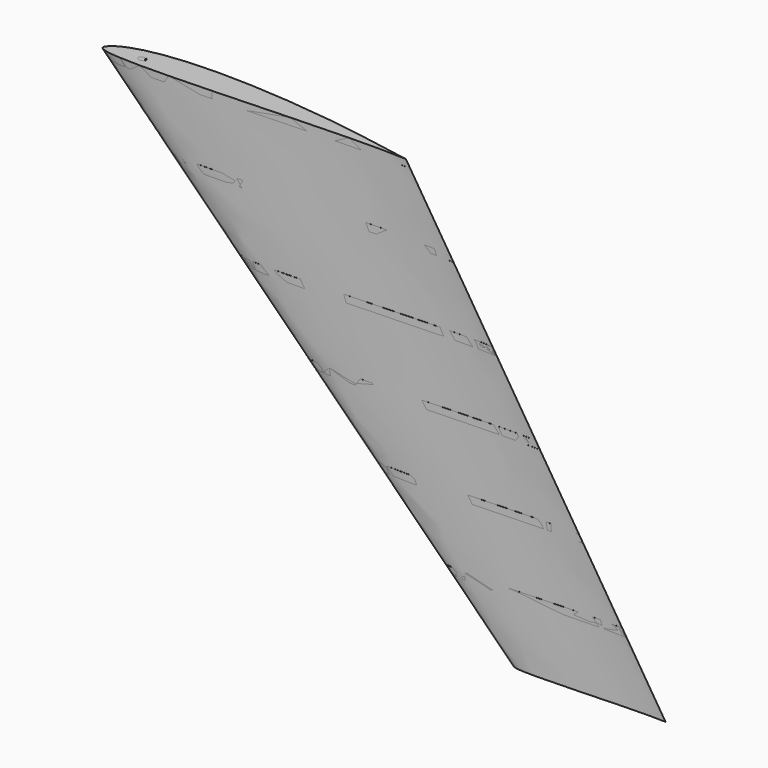
from build123d import *

# Parameters (mm, degrees)
SKETCH002_R     = 4.025
SKETCH003_R     = 4.025
SKETCH028_W     = 1551.71341
SKETCH028_H     = 511.453491
POCKET_DEPTH    = 590
SKETCH006_R     = 4.025
SKETCH007_R     = 4.025
SKETCH029_W     = 875.62088
SKETCH029_H     = 403.039871
POCKET001_DEPTH = 100
SKETCH030_W     = 1072.280362
SKETCH030_H     = 438.184342
POCKET002_DEPTH = 490
SKETCH010_R     = 4.025
SKETCH011_R     = 4.025
SKETCH031_W     = 1495.088257
SKETCH031_H     = 461.22145
POCKET003_DEPTH = 200
SKETCH032_W     = 977.241516
SKETCH032_H     = 280.386124
POCKET004_DEPTH = 390
SKETCH014_R     = 4.025
SKETCH015_R     = 4.025
SKETCH033_W     = 1395.514465
SKETCH033_H     = 519.83194
POCKET005_DEPTH = 300
SKETCH034_W     = 936.936814
SKETCH034_H     = 260.218681
POCKET006_DEPTH = 290
SKETCH018_R     = 4.025
SKETCH019_R     = 4.025
SKETCH035_W     = 1150.770355
SKETCH035_H     = 347.971039
POCKET007_DEPTH = 400
SKETCH036_W     = 742.520874
SKETCH036_H     = 238.373878
POCKET008_DEPTH = 190
SKETCH022_R     = 4.025
SKETCH023_R     = 4.025
SKETCH037_W     = 2361.441773
SKETCH037_H     = 620.731323
POCKET009_DEPTH = 500
SKETCH038_W     = 999.160874
SKETCH038_H     = 257.553367
POCKET010_DEPTH = 90
SKETCH039_R     = 4.05
POCKET011_DEPTH = 1000


with BuildPart() as body:
    # Sketch001 → AdditiveLoft section 0
    with BuildSketch(Plane.XY):
        with BuildLine():
            add(Edge.make_bspline(
                [(442, 0), (441.516482, 0.05985), (439.608661, 0.304392), (435.397729, 0.910974), (428.574856, 2.050787), (419.357172, 3.70148), (407.988015, 5.842425), (394.698211, 8.361511), (379.693029, 11.119858), (363.162801, 13.997331), (345.26298, 16.850624), (326.154422, 19.592319), (306.024603, 22.224467), (285.087437, 24.693135), (263.574681, 26.954707), (241.720258, 28.956147), (219.751231, 30.630726), (197.897907, 31.93252), (176.376671, 32.821617), (155.396014, 33.244603), (135.15065, 33.188213), (115.824376, 32.629564), (97.587476, 31.56887), (80.596225, 30.005784), (64.993081, 27.968424), (50.899514, 25.480303), (38.413049, 22.576942), (27.612464, 19.308312), (18.537399, 15.757674), (11.25959, 12.025676), (5.681209, 8.285847), (2.085717, 4.609671), (-0.247471, 1.339778), (0.311945, -2.351632), (4.312806, -4.086549), (9.630029, -5.736613), (17.536136, -6.998137), (27.548729, -7.995899), (39.778624, -8.638792), (54.057759, -8.977652), (70.277468, -9.020418), (88.270446, -8.806011), (107.851364, -8.369968), (128.803322, -7.757266), (150.891088, -7.009708), (173.8572, -6.171241), (197.434439, -5.258382), (221.347851, -4.314599), (245.320032, -3.359505), (269.074332, -2.428661), (292.331841, -1.542801), (314.820615, -0.740997), (336.263952, -0.054134), (356.390635, 0.471415), (374.915352, 0.819632), (391.616087, 0.995955), (406.124271, 0.998543), (418.5896, 0.838399), (427.79948, 0.669458), (436.147044, 0.281922), (438.208582, 0.287723), (442.482043, -0.059667), (442, 0)],
                knots=[0, 0, 0, 0, 1.461597, 5.77029, 12.762078, 22.212664, 33.86298, 47.468775, 62.792045, 79.632371, 97.804006, 117.167199, 137.543181, 158.706049, 180.412086, 202.435333, 224.541436, 246.507528, 268.108303, 289.156025, 309.457208, 328.838587, 347.151752, 364.251375, 380.016791, 394.345039, 407.169539, 418.451022, 428.175556, 436.348274, 442.987025, 448.138084, 451.892769, 454.490135, 458.080843, 463.78995, 471.700688, 481.805752, 494.068802, 508.3943, 524.664455, 542.72125, 562.377151, 583.420645, 605.603797, 628.678224, 652.364831, 676.388479, 700.474308, 724.338439, 747.706026, 770.297556, 791.846969, 812.070775, 830.691007, 847.452489, 862.104791, 874.428615, 884.234973, 891.369529, 895.711178, 897.168317, 897.168317, 897.168317, 897.168317], degree=3))
        make_face()
    # Sketch → AdditiveLoft section 1
    with BuildSketch(Plane(origin=(600, 0, -600), x_dir=(1, 0, 0), z_dir=(0, 0, 1))):
        with BuildLine():
            add(Edge.make_bspline(
                [(221, 0), (220.758241, 0.029925), (219.804331, 0.152196), (217.698864, 0.455487), (214.287428, 1.025393), (209.678586, 1.85074), (203.994008, 2.921212), (197.349106, 4.180756), (189.846514, 5.559929), (181.5814, 6.998665), (172.63149, 8.425312), (163.077211, 9.796159), (153.012301, 11.112233), (142.543719, 12.346568), (131.78734, 13.477353), (120.860129, 14.478073), (109.875616, 15.315363), (98.948954, 15.96626), (88.188336, 16.410808), (77.698007, 16.622301), (67.575325, 16.594107), (57.912188, 16.314782), (48.793738, 15.784435), (40.298113, 15.002892), (32.49654, 13.984212), (25.449757, 12.740151), (19.206525, 11.288471), (13.806232, 9.654156), (9.2687, 7.878837), (5.629795, 6.012838), (2.840604, 4.142924), (1.042858, 2.304836), (-0.123736, 0.669889), (0.155972, -1.175816), (2.156403, -2.043274), (4.815015, -2.868307), (8.768068, -3.499068), (13.774365, -3.997949), (19.889312, -4.319396), (27.028879, -4.488826), (35.138734, -4.510209), (44.135223, -4.403006), (53.925682, -4.184984), (64.401661, -3.878633), (75.445544, -3.504854), (86.9286, -3.08562), (98.71722, -2.629191), (110.673925, -2.157299), (122.660016, -1.679753), (134.537166, -1.21433), (146.165921, -0.771401), (157.410308, -0.370498), (168.131976, -0.027067), (178.195317, 0.235708), (187.457676, 0.409816), (195.808043, 0.497978), (203.062136, 0.499271), (209.2948, 0.4192), (213.89974, 0.334729), (218.073522, 0.140961), (219.104291, 0.143861), (221.241022, -0.029834), (221, 0)],
                knots=[0, 0, 0, 0, 0.730799, 2.885145, 6.381039, 11.106332, 16.93149, 23.734387, 31.396023, 39.816186, 48.902003, 58.583599, 68.77159, 79.353025, 90.206043, 101.217667, 112.270718, 123.253764, 134.054152, 144.578012, 154.728604, 164.419294, 173.575876, 182.125688, 190.008395, 197.172519, 203.58477, 209.225511, 214.087778, 218.174137, 221.493513, 224.069042, 225.946384, 227.245067, 229.040421, 231.894975, 235.850344, 240.902876, 247.034401, 254.19715, 262.332227, 271.360625, 281.188575, 291.710323, 302.801898, 314.339112, 326.182416, 338.19424, 350.237154, 362.16922, 373.853013, 385.148778, 395.923484, 406.035388, 415.345504, 423.726244, 431.052396, 437.214307, 442.117487, 445.684765, 447.855589, 448.584159, 448.584159, 448.584159, 448.584159], degree=3))
        make_face()
    loft()

    # Sketch002 (on Face1 of AdditiveLoft) → SubtractiveLoft section 0
    with BuildSketch(Plane.XY):
        with Locations((60, 8)):
            Circle(SKETCH002_R)
    # Sketch003 (on Face3 of AdditiveLoft) → SubtractiveLoft section 1
    with BuildSketch(Plane(origin=(0, 0, -600), x_dir=(1, 0, 0), z_dir=(0, 0, -1))):
        with Locations((673, -6.3)):
            Circle(SKETCH003_R)
    loft(mode=Mode.SUBTRACT)

    # Sketch028 (on Face4 of SubtractiveLoft) → Pocket (cut)
    with BuildSketch(Plane(origin=(0, 0, -600), x_dir=(1, 0, 0), z_dir=(0, 0, -1))):
        with Locations((414.172592, -16.717498)):
            Rectangle(SKETCH028_W, SKETCH028_H)
    extrude(amount=-POCKET_DEPTH, mode=Mode.SUBTRACT)


with BuildPart() as body001:
    # Sketch005 → AdditiveLoft001 section 0
    with BuildSketch(Plane.XY):
        with BuildLine():
            add(Edge.make_bspline(
                [(442, 0), (441.516482, 0.05985), (439.608661, 0.304392), (435.397729, 0.910974), (428.574856, 2.050787), (419.357172, 3.70148), (407.988015, 5.842425), (394.698211, 8.361511), (379.693029, 11.119858), (363.162801, 13.997331), (345.26298, 16.850624), (326.154422, 19.592319), (306.024603, 22.224467), (285.087437, 24.693135), (263.574681, 26.954707), (241.720258, 28.956147), (219.751231, 30.630726), (197.897907, 31.93252), (176.376671, 32.821617), (155.396014, 33.244603), (135.15065, 33.188213), (115.824376, 32.629564), (97.587476, 31.56887), (80.596225, 30.005784), (64.993081, 27.968424), (50.899514, 25.480303), (38.413049, 22.576942), (27.612464, 19.308312), (18.537399, 15.757674), (11.25959, 12.025676), (5.681209, 8.285847), (2.085717, 4.609671), (-0.247471, 1.339778), (0.311945, -2.351632), (4.312806, -4.086549), (9.630029, -5.736613), (17.536136, -6.998137), (27.548729, -7.995899), (39.778624, -8.638792), (54.057759, -8.977652), (70.277468, -9.020418), (88.270446, -8.806011), (107.851364, -8.369968), (128.803322, -7.757266), (150.891088, -7.009708), (173.8572, -6.171241), (197.434439, -5.258382), (221.347851, -4.314599), (245.320032, -3.359505), (269.074332, -2.428661), (292.331841, -1.542801), (314.820615, -0.740997), (336.263952, -0.054134), (356.390635, 0.471415), (374.915352, 0.819632), (391.616087, 0.995955), (406.124271, 0.998543), (418.5896, 0.838399), (427.79948, 0.669458), (436.147044, 0.281922), (438.208582, 0.287723), (442.482043, -0.059667), (442, 0)],
                knots=[0, 0, 0, 0, 1.461597, 5.77029, 12.762078, 22.212664, 33.86298, 47.468775, 62.792045, 79.632371, 97.804006, 117.167199, 137.543181, 158.706049, 180.412086, 202.435333, 224.541436, 246.507528, 268.108303, 289.156025, 309.457208, 328.838587, 347.151752, 364.251375, 380.016791, 394.345039, 407.169539, 418.451022, 428.175556, 436.348274, 442.987025, 448.138084, 451.892769, 454.490135, 458.080843, 463.78995, 471.700688, 481.805752, 494.068802, 508.3943, 524.664455, 542.72125, 562.377151, 583.420645, 605.603797, 628.678224, 652.364831, 676.388479, 700.474308, 724.338439, 747.706026, 770.297556, 791.846969, 812.070775, 830.691007, 847.452489, 862.104791, 874.428615, 884.234973, 891.369529, 895.711178, 897.168317, 897.168317, 897.168317, 897.168317], degree=3))
        make_face()
    # Sketch004 → AdditiveLoft001 section 1
    with BuildSketch(Plane(origin=(600, 0, -600), x_dir=(1, 0, 0), z_dir=(0, 0, 1))):
        with BuildLine():
            add(Edge.make_bspline(
                [(221, 0), (220.758241, 0.029925), (219.804331, 0.152196), (217.698864, 0.455487), (214.287428, 1.025393), (209.678586, 1.85074), (203.994008, 2.921212), (197.349106, 4.180756), (189.846514, 5.559929), (181.5814, 6.998665), (172.63149, 8.425312), (163.077211, 9.796159), (153.012301, 11.112233), (142.543719, 12.346568), (131.78734, 13.477353), (120.860129, 14.478073), (109.875616, 15.315363), (98.948954, 15.96626), (88.188336, 16.410808), (77.698007, 16.622301), (67.575325, 16.594107), (57.912188, 16.314782), (48.793738, 15.784435), (40.298113, 15.002892), (32.49654, 13.984212), (25.449757, 12.740151), (19.206525, 11.288471), (13.806232, 9.654156), (9.2687, 7.878837), (5.629795, 6.012838), (2.840604, 4.142924), (1.042858, 2.304836), (-0.123736, 0.669889), (0.155972, -1.175816), (2.156403, -2.043274), (4.815015, -2.868307), (8.768068, -3.499068), (13.774365, -3.997949), (19.889312, -4.319396), (27.028879, -4.488826), (35.138734, -4.510209), (44.135223, -4.403006), (53.925682, -4.184984), (64.401661, -3.878633), (75.445544, -3.504854), (86.9286, -3.08562), (98.71722, -2.629191), (110.673925, -2.157299), (122.660016, -1.679753), (134.537166, -1.21433), (146.165921, -0.771401), (157.410308, -0.370498), (168.131976, -0.027067), (178.195317, 0.235708), (187.457676, 0.409816), (195.808043, 0.497978), (203.062136, 0.499271), (209.2948, 0.4192), (213.89974, 0.334729), (218.073522, 0.140961), (219.104291, 0.143861), (221.241022, -0.029834), (221, 0)],
                knots=[0, 0, 0, 0, 0.730799, 2.885145, 6.381039, 11.106332, 16.93149, 23.734387, 31.396023, 39.816186, 48.902003, 58.583599, 68.77159, 79.353025, 90.206043, 101.217667, 112.270718, 123.253764, 134.054152, 144.578012, 154.728604, 164.419294, 173.575876, 182.125688, 190.008395, 197.172519, 203.58477, 209.225511, 214.087778, 218.174137, 221.493513, 224.069042, 225.946384, 227.245067, 229.040421, 231.894975, 235.850344, 240.902876, 247.034401, 254.19715, 262.332227, 271.360625, 281.188575, 291.710323, 302.801898, 314.339112, 326.182416, 338.19424, 350.237154, 362.16922, 373.853013, 385.148778, 395.923484, 406.035388, 415.345504, 423.726244, 431.052396, 437.214307, 442.117487, 445.684765, 447.855589, 448.584159, 448.584159, 448.584159, 448.584159], degree=3))
        make_face()
    loft()

    # Sketch006 (on Face1 of AdditiveLoft001) → SubtractiveLoft001 section 0
    with BuildSketch(Plane.XY):
        with Locations((60, 8)):
            Circle(SKETCH006_R)
    # Sketch007 (on Face3 of AdditiveLoft001) → SubtractiveLoft001 section 1
    with BuildSketch(Plane(origin=(0, 0, -600), x_dir=(1, 0, 0), z_dir=(0, 0, -1))):
        with Locations((673, -6.3)):
            Circle(SKETCH007_R)
    loft(mode=Mode.SUBTRACT)

    # Sketch029 (on Face1 of SubtractiveLoft001) → Pocket001 (cut)
    with BuildSketch(Plane.XY):
        with Locations((254.505234, 24.189644)):
            Rectangle(SKETCH029_W, SKETCH029_H)
    extrude(amount=-POCKET001_DEPTH, mode=Mode.SUBTRACT)

    # Sketch030 (on Face3 of Pocket001) → Pocket002 (cut)
    with BuildSketch(Plane(origin=(0, 0, -600), x_dir=(1, 0, 0), z_dir=(0, 0, -1))):
        with Locations((596.115923, -30.057411)):
            Rectangle(SKETCH030_W, SKETCH030_H)
    extrude(amount=-POCKET002_DEPTH, mode=Mode.SUBTRACT)


with BuildPart() as body002:
    # Sketch009 → AdditiveLoft002 section 0
    with BuildSketch(Plane.XY):
        with BuildLine():
            add(Edge.make_bspline(
                [(442, 0), (441.516482, 0.05985), (439.608661, 0.304392), (435.397729, 0.910974), (428.574856, 2.050787), (419.357172, 3.70148), (407.988015, 5.842425), (394.698211, 8.361511), (379.693029, 11.119858), (363.162801, 13.997331), (345.26298, 16.850624), (326.154422, 19.592319), (306.024603, 22.224467), (285.087437, 24.693135), (263.574681, 26.954707), (241.720258, 28.956147), (219.751231, 30.630726), (197.897907, 31.93252), (176.376671, 32.821617), (155.396014, 33.244603), (135.15065, 33.188213), (115.824376, 32.629564), (97.587476, 31.56887), (80.596225, 30.005784), (64.993081, 27.968424), (50.899514, 25.480303), (38.413049, 22.576942), (27.612464, 19.308312), (18.537399, 15.757674), (11.25959, 12.025676), (5.681209, 8.285847), (2.085717, 4.609671), (-0.247471, 1.339778), (0.311945, -2.351632), (4.312806, -4.086549), (9.630029, -5.736613), (17.536136, -6.998137), (27.548729, -7.995899), (39.778624, -8.638792), (54.057759, -8.977652), (70.277468, -9.020418), (88.270446, -8.806011), (107.851364, -8.369968), (128.803322, -7.757266), (150.891088, -7.009708), (173.8572, -6.171241), (197.434439, -5.258382), (221.347851, -4.314599), (245.320032, -3.359505), (269.074332, -2.428661), (292.331841, -1.542801), (314.820615, -0.740997), (336.263952, -0.054134), (356.390635, 0.471415), (374.915352, 0.819632), (391.616087, 0.995955), (406.124271, 0.998543), (418.5896, 0.838399), (427.79948, 0.669458), (436.147044, 0.281922), (438.208582, 0.287723), (442.482043, -0.059667), (442, 0)],
                knots=[0, 0, 0, 0, 1.461597, 5.77029, 12.762078, 22.212664, 33.86298, 47.468775, 62.792045, 79.632371, 97.804006, 117.167199, 137.543181, 158.706049, 180.412086, 202.435333, 224.541436, 246.507528, 268.108303, 289.156025, 309.457208, 328.838587, 347.151752, 364.251375, 380.016791, 394.345039, 407.169539, 418.451022, 428.175556, 436.348274, 442.987025, 448.138084, 451.892769, 454.490135, 458.080843, 463.78995, 471.700688, 481.805752, 494.068802, 508.3943, 524.664455, 542.72125, 562.377151, 583.420645, 605.603797, 628.678224, 652.364831, 676.388479, 700.474308, 724.338439, 747.706026, 770.297556, 791.846969, 812.070775, 830.691007, 847.452489, 862.104791, 874.428615, 884.234973, 891.369529, 895.711178, 897.168317, 897.168317, 897.168317, 897.168317], degree=3))
        make_face()
    # Sketch008 → AdditiveLoft002 section 1
    with BuildSketch(Plane(origin=(600, 0, -600), x_dir=(1, 0, 0), z_dir=(0, 0, 1))):
        with BuildLine():
            add(Edge.make_bspline(
                [(221, 0), (220.758241, 0.029925), (219.804331, 0.152196), (217.698864, 0.455487), (214.287428, 1.025393), (209.678586, 1.85074), (203.994008, 2.921212), (197.349106, 4.180756), (189.846514, 5.559929), (181.5814, 6.998665), (172.63149, 8.425312), (163.077211, 9.796159), (153.012301, 11.112233), (142.543719, 12.346568), (131.78734, 13.477353), (120.860129, 14.478073), (109.875616, 15.315363), (98.948954, 15.96626), (88.188336, 16.410808), (77.698007, 16.622301), (67.575325, 16.594107), (57.912188, 16.314782), (48.793738, 15.784435), (40.298113, 15.002892), (32.49654, 13.984212), (25.449757, 12.740151), (19.206525, 11.288471), (13.806232, 9.654156), (9.2687, 7.878837), (5.629795, 6.012838), (2.840604, 4.142924), (1.042858, 2.304836), (-0.123736, 0.669889), (0.155972, -1.175816), (2.156403, -2.043274), (4.815015, -2.868307), (8.768068, -3.499068), (13.774365, -3.997949), (19.889312, -4.319396), (27.028879, -4.488826), (35.138734, -4.510209), (44.135223, -4.403006), (53.925682, -4.184984), (64.401661, -3.878633), (75.445544, -3.504854), (86.9286, -3.08562), (98.71722, -2.629191), (110.673925, -2.157299), (122.660016, -1.679753), (134.537166, -1.21433), (146.165921, -0.771401), (157.410308, -0.370498), (168.131976, -0.027067), (178.195317, 0.235708), (187.457676, 0.409816), (195.808043, 0.497978), (203.062136, 0.499271), (209.2948, 0.4192), (213.89974, 0.334729), (218.073522, 0.140961), (219.104291, 0.143861), (221.241022, -0.029834), (221, 0)],
                knots=[0, 0, 0, 0, 0.730799, 2.885145, 6.381039, 11.106332, 16.93149, 23.734387, 31.396023, 39.816186, 48.902003, 58.583599, 68.77159, 79.353025, 90.206043, 101.217667, 112.270718, 123.253764, 134.054152, 144.578012, 154.728604, 164.419294, 173.575876, 182.125688, 190.008395, 197.172519, 203.58477, 209.225511, 214.087778, 218.174137, 221.493513, 224.069042, 225.946384, 227.245067, 229.040421, 231.894975, 235.850344, 240.902876, 247.034401, 254.19715, 262.332227, 271.360625, 281.188575, 291.710323, 302.801898, 314.339112, 326.182416, 338.19424, 350.237154, 362.16922, 373.853013, 385.148778, 395.923484, 406.035388, 415.345504, 423.726244, 431.052396, 437.214307, 442.117487, 445.684765, 447.855589, 448.584159, 448.584159, 448.584159, 448.584159], degree=3))
        make_face()
    loft()

    # Sketch010 (on Face1 of AdditiveLoft002) → SubtractiveLoft002 section 0
    with BuildSketch(Plane.XY):
        with Locations((60, 8)):
            Circle(SKETCH010_R)
    # Sketch011 (on Face3 of AdditiveLoft002) → SubtractiveLoft002 section 1
    with BuildSketch(Plane(origin=(0, 0, -600), x_dir=(1, 0, 0), z_dir=(0, 0, -1))):
        with Locations((673, -6.3)):
            Circle(SKETCH011_R)
    loft(mode=Mode.SUBTRACT)

    # Sketch031 (on Face1 of SubtractiveLoft002) → Pocket003 (cut)
    with BuildSketch(Plane.XY):
        with Locations((453.857972, 22.054741)):
            Rectangle(SKETCH031_W, SKETCH031_H)
    extrude(amount=-POCKET003_DEPTH, mode=Mode.SUBTRACT)

    # Sketch032 (on Face3 of Pocket003) → Pocket004 (cut)
    with BuildSketch(Plane(origin=(0, 0, -600), x_dir=(1, 0, 0), z_dir=(0, 0, -1))):
        with Locations((605.329437, -4.660988)):
            Rectangle(SKETCH032_W, SKETCH032_H)
    extrude(amount=-POCKET004_DEPTH, mode=Mode.SUBTRACT)


with BuildPart() as body003:
    # Sketch013 → AdditiveLoft003 section 0
    with BuildSketch(Plane.XY):
        with BuildLine():
            add(Edge.make_bspline(
                [(442, 0), (441.516482, 0.05985), (439.608661, 0.304392), (435.397729, 0.910974), (428.574856, 2.050787), (419.357172, 3.70148), (407.988015, 5.842425), (394.698211, 8.361511), (379.693029, 11.119858), (363.162801, 13.997331), (345.26298, 16.850624), (326.154422, 19.592319), (306.024603, 22.224467), (285.087437, 24.693135), (263.574681, 26.954707), (241.720258, 28.956147), (219.751231, 30.630726), (197.897907, 31.93252), (176.376671, 32.821617), (155.396014, 33.244603), (135.15065, 33.188213), (115.824376, 32.629564), (97.587476, 31.56887), (80.596225, 30.005784), (64.993081, 27.968424), (50.899514, 25.480303), (38.413049, 22.576942), (27.612464, 19.308312), (18.537399, 15.757674), (11.25959, 12.025676), (5.681209, 8.285847), (2.085717, 4.609671), (-0.247471, 1.339778), (0.311945, -2.351632), (4.312806, -4.086549), (9.630029, -5.736613), (17.536136, -6.998137), (27.548729, -7.995899), (39.778624, -8.638792), (54.057759, -8.977652), (70.277468, -9.020418), (88.270446, -8.806011), (107.851364, -8.369968), (128.803322, -7.757266), (150.891088, -7.009708), (173.8572, -6.171241), (197.434439, -5.258382), (221.347851, -4.314599), (245.320032, -3.359505), (269.074332, -2.428661), (292.331841, -1.542801), (314.820615, -0.740997), (336.263952, -0.054134), (356.390635, 0.471415), (374.915352, 0.819632), (391.616087, 0.995955), (406.124271, 0.998543), (418.5896, 0.838399), (427.79948, 0.669458), (436.147044, 0.281922), (438.208582, 0.287723), (442.482043, -0.059667), (442, 0)],
                knots=[0, 0, 0, 0, 1.461597, 5.77029, 12.762078, 22.212664, 33.86298, 47.468775, 62.792045, 79.632371, 97.804006, 117.167199, 137.543181, 158.706049, 180.412086, 202.435333, 224.541436, 246.507528, 268.108303, 289.156025, 309.457208, 328.838587, 347.151752, 364.251375, 380.016791, 394.345039, 407.169539, 418.451022, 428.175556, 436.348274, 442.987025, 448.138084, 451.892769, 454.490135, 458.080843, 463.78995, 471.700688, 481.805752, 494.068802, 508.3943, 524.664455, 542.72125, 562.377151, 583.420645, 605.603797, 628.678224, 652.364831, 676.388479, 700.474308, 724.338439, 747.706026, 770.297556, 791.846969, 812.070775, 830.691007, 847.452489, 862.104791, 874.428615, 884.234973, 891.369529, 895.711178, 897.168317, 897.168317, 897.168317, 897.168317], degree=3))
        make_face()
    # Sketch012 → AdditiveLoft003 section 1
    with BuildSketch(Plane(origin=(600, 0, -600), x_dir=(1, 0, 0), z_dir=(0, 0, 1))):
        with BuildLine():
            add(Edge.make_bspline(
                [(221, 0), (220.758241, 0.029925), (219.804331, 0.152196), (217.698864, 0.455487), (214.287428, 1.025393), (209.678586, 1.85074), (203.994008, 2.921212), (197.349106, 4.180756), (189.846514, 5.559929), (181.5814, 6.998665), (172.63149, 8.425312), (163.077211, 9.796159), (153.012301, 11.112233), (142.543719, 12.346568), (131.78734, 13.477353), (120.860129, 14.478073), (109.875616, 15.315363), (98.948954, 15.96626), (88.188336, 16.410808), (77.698007, 16.622301), (67.575325, 16.594107), (57.912188, 16.314782), (48.793738, 15.784435), (40.298113, 15.002892), (32.49654, 13.984212), (25.449757, 12.740151), (19.206525, 11.288471), (13.806232, 9.654156), (9.2687, 7.878837), (5.629795, 6.012838), (2.840604, 4.142924), (1.042858, 2.304836), (-0.123736, 0.669889), (0.155972, -1.175816), (2.156403, -2.043274), (4.815015, -2.868307), (8.768068, -3.499068), (13.774365, -3.997949), (19.889312, -4.319396), (27.028879, -4.488826), (35.138734, -4.510209), (44.135223, -4.403006), (53.925682, -4.184984), (64.401661, -3.878633), (75.445544, -3.504854), (86.9286, -3.08562), (98.71722, -2.629191), (110.673925, -2.157299), (122.660016, -1.679753), (134.537166, -1.21433), (146.165921, -0.771401), (157.410308, -0.370498), (168.131976, -0.027067), (178.195317, 0.235708), (187.457676, 0.409816), (195.808043, 0.497978), (203.062136, 0.499271), (209.2948, 0.4192), (213.89974, 0.334729), (218.073522, 0.140961), (219.104291, 0.143861), (221.241022, -0.029834), (221, 0)],
                knots=[0, 0, 0, 0, 0.730799, 2.885145, 6.381039, 11.106332, 16.93149, 23.734387, 31.396023, 39.816186, 48.902003, 58.583599, 68.77159, 79.353025, 90.206043, 101.217667, 112.270718, 123.253764, 134.054152, 144.578012, 154.728604, 164.419294, 173.575876, 182.125688, 190.008395, 197.172519, 203.58477, 209.225511, 214.087778, 218.174137, 221.493513, 224.069042, 225.946384, 227.245067, 229.040421, 231.894975, 235.850344, 240.902876, 247.034401, 254.19715, 262.332227, 271.360625, 281.188575, 291.710323, 302.801898, 314.339112, 326.182416, 338.19424, 350.237154, 362.16922, 373.853013, 385.148778, 395.923484, 406.035388, 415.345504, 423.726244, 431.052396, 437.214307, 442.117487, 445.684765, 447.855589, 448.584159, 448.584159, 448.584159, 448.584159], degree=3))
        make_face()
    loft()

    # Sketch014 (on Face1 of AdditiveLoft003) → SubtractiveLoft003 section 0
    with BuildSketch(Plane.XY):
        with Locations((60, 8)):
            Circle(SKETCH014_R)
    # Sketch015 (on Face3 of AdditiveLoft003) → SubtractiveLoft003 section 1
    with BuildSketch(Plane(origin=(0, 0, -600), x_dir=(1, 0, 0), z_dir=(0, 0, -1))):
        with Locations((673, -6.3)):
            Circle(SKETCH015_R)
    loft(mode=Mode.SUBTRACT)

    # Sketch033 (on Face1 of SubtractiveLoft003) → Pocket005 (cut)
    with BuildSketch(Plane.XY):
        with Locations((342.859222, 1.248154)):
            Rectangle(SKETCH033_W, SKETCH033_H)
    extrude(amount=-POCKET005_DEPTH, mode=Mode.SUBTRACT)

    # Sketch034 (on Face3 of Pocket005) → Pocket006 (cut)
    with BuildSketch(Plane(origin=(0, 0, -600), x_dir=(1, 0, 0), z_dir=(0, 0, -1))):
        with Locations((702.334816, -12.886372)):
            Rectangle(SKETCH034_W, SKETCH034_H)
    extrude(amount=-POCKET006_DEPTH, mode=Mode.SUBTRACT)


with BuildPart() as body004:
    # Sketch017 → AdditiveLoft004 section 0
    with BuildSketch(Plane.XY):
        with BuildLine():
            add(Edge.make_bspline(
                [(442, 0), (441.516482, 0.05985), (439.608661, 0.304392), (435.397729, 0.910974), (428.574856, 2.050787), (419.357172, 3.70148), (407.988015, 5.842425), (394.698211, 8.361511), (379.693029, 11.119858), (363.162801, 13.997331), (345.26298, 16.850624), (326.154422, 19.592319), (306.024603, 22.224467), (285.087437, 24.693135), (263.574681, 26.954707), (241.720258, 28.956147), (219.751231, 30.630726), (197.897907, 31.93252), (176.376671, 32.821617), (155.396014, 33.244603), (135.15065, 33.188213), (115.824376, 32.629564), (97.587476, 31.56887), (80.596225, 30.005784), (64.993081, 27.968424), (50.899514, 25.480303), (38.413049, 22.576942), (27.612464, 19.308312), (18.537399, 15.757674), (11.25959, 12.025676), (5.681209, 8.285847), (2.085717, 4.609671), (-0.247471, 1.339778), (0.311945, -2.351632), (4.312806, -4.086549), (9.630029, -5.736613), (17.536136, -6.998137), (27.548729, -7.995899), (39.778624, -8.638792), (54.057759, -8.977652), (70.277468, -9.020418), (88.270446, -8.806011), (107.851364, -8.369968), (128.803322, -7.757266), (150.891088, -7.009708), (173.8572, -6.171241), (197.434439, -5.258382), (221.347851, -4.314599), (245.320032, -3.359505), (269.074332, -2.428661), (292.331841, -1.542801), (314.820615, -0.740997), (336.263952, -0.054134), (356.390635, 0.471415), (374.915352, 0.819632), (391.616087, 0.995955), (406.124271, 0.998543), (418.5896, 0.838399), (427.79948, 0.669458), (436.147044, 0.281922), (438.208582, 0.287723), (442.482043, -0.059667), (442, 0)],
                knots=[0, 0, 0, 0, 1.461597, 5.77029, 12.762078, 22.212664, 33.86298, 47.468775, 62.792045, 79.632371, 97.804006, 117.167199, 137.543181, 158.706049, 180.412086, 202.435333, 224.541436, 246.507528, 268.108303, 289.156025, 309.457208, 328.838587, 347.151752, 364.251375, 380.016791, 394.345039, 407.169539, 418.451022, 428.175556, 436.348274, 442.987025, 448.138084, 451.892769, 454.490135, 458.080843, 463.78995, 471.700688, 481.805752, 494.068802, 508.3943, 524.664455, 542.72125, 562.377151, 583.420645, 605.603797, 628.678224, 652.364831, 676.388479, 700.474308, 724.338439, 747.706026, 770.297556, 791.846969, 812.070775, 830.691007, 847.452489, 862.104791, 874.428615, 884.234973, 891.369529, 895.711178, 897.168317, 897.168317, 897.168317, 897.168317], degree=3))
        make_face()
    # Sketch016 → AdditiveLoft004 section 1
    with BuildSketch(Plane(origin=(600, 0, -600), x_dir=(1, 0, 0), z_dir=(0, 0, 1))):
        with BuildLine():
            add(Edge.make_bspline(
                [(221, 0), (220.758241, 0.029925), (219.804331, 0.152196), (217.698864, 0.455487), (214.287428, 1.025393), (209.678586, 1.85074), (203.994008, 2.921212), (197.349106, 4.180756), (189.846514, 5.559929), (181.5814, 6.998665), (172.63149, 8.425312), (163.077211, 9.796159), (153.012301, 11.112233), (142.543719, 12.346568), (131.78734, 13.477353), (120.860129, 14.478073), (109.875616, 15.315363), (98.948954, 15.96626), (88.188336, 16.410808), (77.698007, 16.622301), (67.575325, 16.594107), (57.912188, 16.314782), (48.793738, 15.784435), (40.298113, 15.002892), (32.49654, 13.984212), (25.449757, 12.740151), (19.206525, 11.288471), (13.806232, 9.654156), (9.2687, 7.878837), (5.629795, 6.012838), (2.840604, 4.142924), (1.042858, 2.304836), (-0.123736, 0.669889), (0.155972, -1.175816), (2.156403, -2.043274), (4.815015, -2.868307), (8.768068, -3.499068), (13.774365, -3.997949), (19.889312, -4.319396), (27.028879, -4.488826), (35.138734, -4.510209), (44.135223, -4.403006), (53.925682, -4.184984), (64.401661, -3.878633), (75.445544, -3.504854), (86.9286, -3.08562), (98.71722, -2.629191), (110.673925, -2.157299), (122.660016, -1.679753), (134.537166, -1.21433), (146.165921, -0.771401), (157.410308, -0.370498), (168.131976, -0.027067), (178.195317, 0.235708), (187.457676, 0.409816), (195.808043, 0.497978), (203.062136, 0.499271), (209.2948, 0.4192), (213.89974, 0.334729), (218.073522, 0.140961), (219.104291, 0.143861), (221.241022, -0.029834), (221, 0)],
                knots=[0, 0, 0, 0, 0.730799, 2.885145, 6.381039, 11.106332, 16.93149, 23.734387, 31.396023, 39.816186, 48.902003, 58.583599, 68.77159, 79.353025, 90.206043, 101.217667, 112.270718, 123.253764, 134.054152, 144.578012, 154.728604, 164.419294, 173.575876, 182.125688, 190.008395, 197.172519, 203.58477, 209.225511, 214.087778, 218.174137, 221.493513, 224.069042, 225.946384, 227.245067, 229.040421, 231.894975, 235.850344, 240.902876, 247.034401, 254.19715, 262.332227, 271.360625, 281.188575, 291.710323, 302.801898, 314.339112, 326.182416, 338.19424, 350.237154, 362.16922, 373.853013, 385.148778, 395.923484, 406.035388, 415.345504, 423.726244, 431.052396, 437.214307, 442.117487, 445.684765, 447.855589, 448.584159, 448.584159, 448.584159, 448.584159], degree=3))
        make_face()
    loft()

    # Sketch018 (on Face1 of AdditiveLoft004) → SubtractiveLoft004 section 0
    with BuildSketch(Plane.XY):
        with Locations((60, 8)):
            Circle(SKETCH018_R)
    # Sketch019 (on Face3 of AdditiveLoft004) → SubtractiveLoft004 section 1
    with BuildSketch(Plane(origin=(0, 0, -600), x_dir=(1, 0, 0), z_dir=(0, 0, -1))):
        with Locations((673, -6.3)):
            Circle(SKETCH019_R)
    loft(mode=Mode.SUBTRACT)

    # Sketch035 (on Face1 of SubtractiveLoft004) → Pocket007 (cut)
    with BuildSketch(Plane.XY):
        with Locations((422.774674, -7.339768)):
            Rectangle(SKETCH035_W, SKETCH035_H)
    extrude(amount=-POCKET007_DEPTH, mode=Mode.SUBTRACT)

    # Sketch036 (on Face3 of Pocket007) → Pocket008 (cut)
    with BuildSketch(Plane(origin=(0, 0, -600), x_dir=(1, 0, 0), z_dir=(0, 0, -1))):
        with Locations((689.19928, -14.767544)):
            Rectangle(SKETCH036_W, SKETCH036_H)
    extrude(amount=-POCKET008_DEPTH, mode=Mode.SUBTRACT)


with BuildPart() as body005:
    # Sketch021 → AdditiveLoft005 section 0
    with BuildSketch(Plane.XY):
        with BuildLine():
            add(Edge.make_bspline(
                [(442, 0), (441.516482, 0.05985), (439.608661, 0.304392), (435.397729, 0.910974), (428.574856, 2.050787), (419.357172, 3.70148), (407.988015, 5.842425), (394.698211, 8.361511), (379.693029, 11.119858), (363.162801, 13.997331), (345.26298, 16.850624), (326.154422, 19.592319), (306.024603, 22.224467), (285.087437, 24.693135), (263.574681, 26.954707), (241.720258, 28.956147), (219.751231, 30.630726), (197.897907, 31.93252), (176.376671, 32.821617), (155.396014, 33.244603), (135.15065, 33.188213), (115.824376, 32.629564), (97.587476, 31.56887), (80.596225, 30.005784), (64.993081, 27.968424), (50.899514, 25.480303), (38.413049, 22.576942), (27.612464, 19.308312), (18.537399, 15.757674), (11.25959, 12.025676), (5.681209, 8.285847), (2.085717, 4.609671), (-0.247471, 1.339778), (0.311945, -2.351632), (4.312806, -4.086549), (9.630029, -5.736613), (17.536136, -6.998137), (27.548729, -7.995899), (39.778624, -8.638792), (54.057759, -8.977652), (70.277468, -9.020418), (88.270446, -8.806011), (107.851364, -8.369968), (128.803322, -7.757266), (150.891088, -7.009708), (173.8572, -6.171241), (197.434439, -5.258382), (221.347851, -4.314599), (245.320032, -3.359505), (269.074332, -2.428661), (292.331841, -1.542801), (314.820615, -0.740997), (336.263952, -0.054134), (356.390635, 0.471415), (374.915352, 0.819632), (391.616087, 0.995955), (406.124271, 0.998543), (418.5896, 0.838399), (427.79948, 0.669458), (436.147044, 0.281922), (438.208582, 0.287723), (442.482043, -0.059667), (442, 0)],
                knots=[0, 0, 0, 0, 1.461597, 5.77029, 12.762078, 22.212664, 33.86298, 47.468775, 62.792045, 79.632371, 97.804006, 117.167199, 137.543181, 158.706049, 180.412086, 202.435333, 224.541436, 246.507528, 268.108303, 289.156025, 309.457208, 328.838587, 347.151752, 364.251375, 380.016791, 394.345039, 407.169539, 418.451022, 428.175556, 436.348274, 442.987025, 448.138084, 451.892769, 454.490135, 458.080843, 463.78995, 471.700688, 481.805752, 494.068802, 508.3943, 524.664455, 542.72125, 562.377151, 583.420645, 605.603797, 628.678224, 652.364831, 676.388479, 700.474308, 724.338439, 747.706026, 770.297556, 791.846969, 812.070775, 830.691007, 847.452489, 862.104791, 874.428615, 884.234973, 891.369529, 895.711178, 897.168317, 897.168317, 897.168317, 897.168317], degree=3))
        make_face()
    # Sketch020 → AdditiveLoft005 section 1
    with BuildSketch(Plane(origin=(600, 0, -600), x_dir=(1, 0, 0), z_dir=(0, 0, 1))):
        with BuildLine():
            add(Edge.make_bspline(
                [(221, 0), (220.758241, 0.029925), (219.804331, 0.152196), (217.698864, 0.455487), (214.287428, 1.025393), (209.678586, 1.85074), (203.994008, 2.921212), (197.349106, 4.180756), (189.846514, 5.559929), (181.5814, 6.998665), (172.63149, 8.425312), (163.077211, 9.796159), (153.012301, 11.112233), (142.543719, 12.346568), (131.78734, 13.477353), (120.860129, 14.478073), (109.875616, 15.315363), (98.948954, 15.96626), (88.188336, 16.410808), (77.698007, 16.622301), (67.575325, 16.594107), (57.912188, 16.314782), (48.793738, 15.784435), (40.298113, 15.002892), (32.49654, 13.984212), (25.449757, 12.740151), (19.206525, 11.288471), (13.806232, 9.654156), (9.2687, 7.878837), (5.629795, 6.012838), (2.840604, 4.142924), (1.042858, 2.304836), (-0.123736, 0.669889), (0.155972, -1.175816), (2.156403, -2.043274), (4.815015, -2.868307), (8.768068, -3.499068), (13.774365, -3.997949), (19.889312, -4.319396), (27.028879, -4.488826), (35.138734, -4.510209), (44.135223, -4.403006), (53.925682, -4.184984), (64.401661, -3.878633), (75.445544, -3.504854), (86.9286, -3.08562), (98.71722, -2.629191), (110.673925, -2.157299), (122.660016, -1.679753), (134.537166, -1.21433), (146.165921, -0.771401), (157.410308, -0.370498), (168.131976, -0.027067), (178.195317, 0.235708), (187.457676, 0.409816), (195.808043, 0.497978), (203.062136, 0.499271), (209.2948, 0.4192), (213.89974, 0.334729), (218.073522, 0.140961), (219.104291, 0.143861), (221.241022, -0.029834), (221, 0)],
                knots=[0, 0, 0, 0, 0.730799, 2.885145, 6.381039, 11.106332, 16.93149, 23.734387, 31.396023, 39.816186, 48.902003, 58.583599, 68.77159, 79.353025, 90.206043, 101.217667, 112.270718, 123.253764, 134.054152, 144.578012, 154.728604, 164.419294, 173.575876, 182.125688, 190.008395, 197.172519, 203.58477, 209.225511, 214.087778, 218.174137, 221.493513, 224.069042, 225.946384, 227.245067, 229.040421, 231.894975, 235.850344, 240.902876, 247.034401, 254.19715, 262.332227, 271.360625, 281.188575, 291.710323, 302.801898, 314.339112, 326.182416, 338.19424, 350.237154, 362.16922, 373.853013, 385.148778, 395.923484, 406.035388, 415.345504, 423.726244, 431.052396, 437.214307, 442.117487, 445.684765, 447.855589, 448.584159, 448.584159, 448.584159, 448.584159], degree=3))
        make_face()
    loft()

    # Sketch022 (on Face1 of AdditiveLoft005) → SubtractiveLoft005 section 0
    with BuildSketch(Plane.XY):
        with Locations((60, 8)):
            Circle(SKETCH022_R)
    # Sketch023 (on Face3 of AdditiveLoft005) → SubtractiveLoft005 section 1
    with BuildSketch(Plane(origin=(0, 0, -600), x_dir=(1, 0, 0), z_dir=(0, 0, -1))):
        with Locations((673, -6.3)):
            Circle(SKETCH023_R)
    loft(mode=Mode.SUBTRACT)

    # Sketch037 (on Face1 of SubtractiveLoft005) → Pocket009 (cut)
    with BuildSketch(Plane.XY):
        with Locations((412.028382, 39.153229)):
            Rectangle(SKETCH037_W, SKETCH037_H)
    extrude(amount=-POCKET009_DEPTH, mode=Mode.SUBTRACT)

    # Sketch038 (on Face3 of Pocket009) → Pocket010 (cut)
    with BuildSketch(Plane(origin=(0, 0, -600), x_dir=(1, 0, 0), z_dir=(0, 0, -1))):
        with Locations((705.490486, 2.888675)):
            Rectangle(SKETCH038_W, SKETCH038_H)
    extrude(amount=-POCKET010_DEPTH, mode=Mode.SUBTRACT)


with BuildPart() as body006:
    # Sketch025 → AdditiveLoft006 section 0
    with BuildSketch(Plane.XY):
        with BuildLine():
            add(Edge.make_bspline(
                [(442, 0), (441.516482, 0.05985), (439.608661, 0.304392), (435.397729, 0.910974), (428.574856, 2.050787), (419.357172, 3.70148), (407.988015, 5.842425), (394.698211, 8.361511), (379.693029, 11.119858), (363.162801, 13.997331), (345.26298, 16.850624), (326.154422, 19.592319), (306.024603, 22.224467), (285.087437, 24.693135), (263.574681, 26.954707), (241.720258, 28.956147), (219.751231, 30.630726), (197.897907, 31.93252), (176.376671, 32.821617), (155.396014, 33.244603), (135.15065, 33.188213), (115.824376, 32.629564), (97.587476, 31.56887), (80.596225, 30.005784), (64.993081, 27.968424), (50.899514, 25.480303), (38.413049, 22.576942), (27.612464, 19.308312), (18.537399, 15.757674), (11.25959, 12.025676), (5.681209, 8.285847), (2.085717, 4.609671), (-0.247471, 1.339778), (0.311945, -2.351632), (4.312806, -4.086549), (9.630029, -5.736613), (17.536136, -6.998137), (27.548729, -7.995899), (39.778624, -8.638792), (54.057759, -8.977652), (70.277468, -9.020418), (88.270446, -8.806011), (107.851364, -8.369968), (128.803322, -7.757266), (150.891088, -7.009708), (173.8572, -6.171241), (197.434439, -5.258382), (221.347851, -4.314599), (245.320032, -3.359505), (269.074332, -2.428661), (292.331841, -1.542801), (314.820615, -0.740997), (336.263952, -0.054134), (356.390635, 0.471415), (374.915352, 0.819632), (391.616087, 0.995955), (406.124271, 0.998543), (418.5896, 0.838399), (427.79948, 0.669458), (436.147044, 0.281922), (438.208582, 0.287723), (442.482043, -0.059667), (442, 0)],
                knots=[0, 0, 0, 0, 1.461597, 5.77029, 12.762078, 22.212664, 33.86298, 47.468775, 62.792045, 79.632371, 97.804006, 117.167199, 137.543181, 158.706049, 180.412086, 202.435333, 224.541436, 246.507528, 268.108303, 289.156025, 309.457208, 328.838587, 347.151752, 364.251375, 380.016791, 394.345039, 407.169539, 418.451022, 428.175556, 436.348274, 442.987025, 448.138084, 451.892769, 454.490135, 458.080843, 463.78995, 471.700688, 481.805752, 494.068802, 508.3943, 524.664455, 542.72125, 562.377151, 583.420645, 605.603797, 628.678224, 652.364831, 676.388479, 700.474308, 724.338439, 747.706026, 770.297556, 791.846969, 812.070775, 830.691007, 847.452489, 862.104791, 874.428615, 884.234973, 891.369529, 895.711178, 897.168317, 897.168317, 897.168317, 897.168317], degree=3))
        make_face()
    # Sketch024 → AdditiveLoft006 section 1
    with BuildSketch(Plane(origin=(600, 0, -600), x_dir=(1, 0, 0), z_dir=(0, 0, 1))):
        with BuildLine():
            add(Edge.make_bspline(
                [(221, 0), (220.758241, 0.029925), (219.804331, 0.152196), (217.698864, 0.455487), (214.287428, 1.025393), (209.678586, 1.85074), (203.994008, 2.921212), (197.349106, 4.180756), (189.846514, 5.559929), (181.5814, 6.998665), (172.63149, 8.425312), (163.077211, 9.796159), (153.012301, 11.112233), (142.543719, 12.346568), (131.78734, 13.477353), (120.860129, 14.478073), (109.875616, 15.315363), (98.948954, 15.96626), (88.188336, 16.410808), (77.698007, 16.622301), (67.575325, 16.594107), (57.912188, 16.314782), (48.793738, 15.784435), (40.298113, 15.002892), (32.49654, 13.984212), (25.449757, 12.740151), (19.206525, 11.288471), (13.806232, 9.654156), (9.2687, 7.878837), (5.629795, 6.012838), (2.840604, 4.142924), (1.042858, 2.304836), (-0.123736, 0.669889), (0.155972, -1.175816), (2.156403, -2.043274), (4.815015, -2.868307), (8.768068, -3.499068), (13.774365, -3.997949), (19.889312, -4.319396), (27.028879, -4.488826), (35.138734, -4.510209), (44.135223, -4.403006), (53.925682, -4.184984), (64.401661, -3.878633), (75.445544, -3.504854), (86.9286, -3.08562), (98.71722, -2.629191), (110.673925, -2.157299), (122.660016, -1.679753), (134.537166, -1.21433), (146.165921, -0.771401), (157.410308, -0.370498), (168.131976, -0.027067), (178.195317, 0.235708), (187.457676, 0.409816), (195.808043, 0.497978), (203.062136, 0.499271), (209.2948, 0.4192), (213.89974, 0.334729), (218.073522, 0.140961), (219.104291, 0.143861), (221.241022, -0.029834), (221, 0)],
                knots=[0, 0, 0, 0, 0.730799, 2.885145, 6.381039, 11.106332, 16.93149, 23.734387, 31.396023, 39.816186, 48.902003, 58.583599, 68.77159, 79.353025, 90.206043, 101.217667, 112.270718, 123.253764, 134.054152, 144.578012, 154.728604, 164.419294, 173.575876, 182.125688, 190.008395, 197.172519, 203.58477, 209.225511, 214.087778, 218.174137, 221.493513, 224.069042, 225.946384, 227.245067, 229.040421, 231.894975, 235.850344, 240.902876, 247.034401, 254.19715, 262.332227, 271.360625, 281.188575, 291.710323, 302.801898, 314.339112, 326.182416, 338.19424, 350.237154, 362.16922, 373.853013, 385.148778, 395.923484, 406.035388, 415.345504, 423.726244, 431.052396, 437.214307, 442.117487, 445.684765, 447.855589, 448.584159, 448.584159, 448.584159, 448.584159], degree=3))
        make_face()
    loft()

    # Sketch039 (on DatumPlane) → Pocket011 (cut)
    with BuildSketch(Plane(origin=(0, 0, 0), x_dir=(0.707107, 0, 0.707107), z_dir=(-0.707107, 0, 0.707107))):
        with Locations((37.331431, 5.352479)):
            Circle(SKETCH039_R)
    extrude(amount=-POCKET011_DEPTH, mode=Mode.SUBTRACT)


solid = Compound([body.part, body001.part, body002.part, body003.part, body004.part, body005.part, body006.part])
